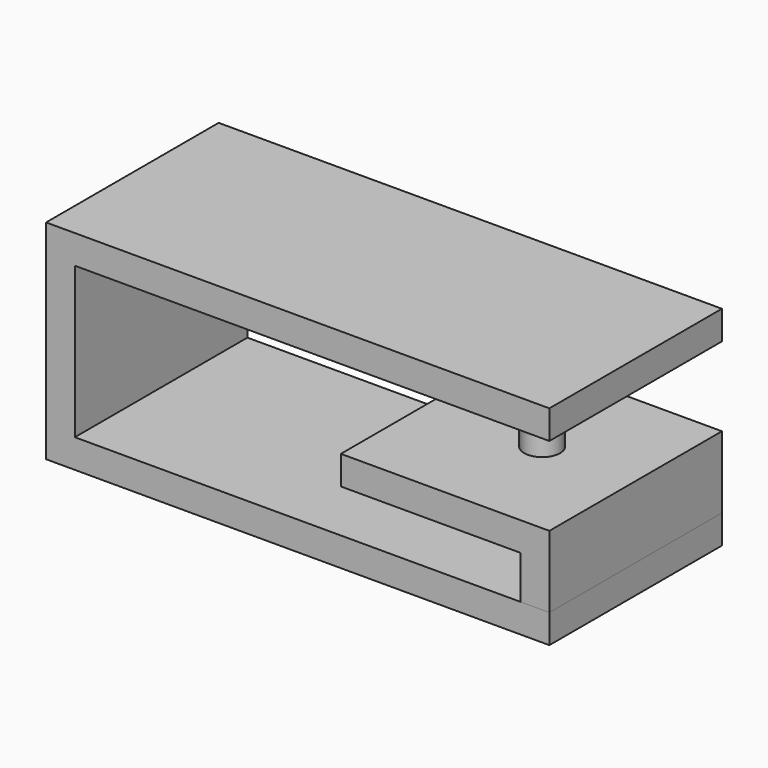
from build123d import *

# Parameters (mm, degrees)
F0_W      = 70
F0_H      = 30
F1_DEPTH  = 4
F2_W      = 4
F2_H      = 30
F3_DEPTH  = 25
F4_W      = 30
F4_H      = 4
F5_DEPTH  = 66
F6_W      = 4
F6_H      = 30
F7_DEPTH  = 10
F8_W      = 30
F8_H      = 4
F9_DEPTH  = 25
F10_R     = 2.5
F11_DEPTH = 11


with BuildPart() as f1:
    # F0 (on Top) → F1 (new body)
    with BuildSketch(Plane.XY):
        with Locations((-35, 15)):
            Rectangle(F0_W, F0_H)
    extrude(amount=F1_DEPTH)

    # F2 (on face) → F3 (join)
    with BuildSketch(Plane(origin=(0, 0, 0), x_dir=(1, 0, 0), z_dir=(0, 0, -1))):
        with Locations((-68, -15)):
            Rectangle(F2_W, F2_H)
    extrude(amount=F3_DEPTH)

    # F4 (on face) → F5 (join)
    with BuildSketch(Plane.YZ.offset(-66)):
        with Locations((15, -23)):
            Rectangle(F4_W, F4_H)
    extrude(amount=F5_DEPTH)


with BuildPart() as f7:
    # F6 (on face) → F7 (new body)
    with BuildSketch(Plane.XY.offset(-21)):
        with Locations((-2, 15)):
            Rectangle(F6_W, F6_H)
    extrude(amount=F7_DEPTH)

    # F8 (on face) → F9 (join)
    with BuildSketch(Plane(origin=(-4, 0, 0), x_dir=(0, -1, 0), z_dir=(-1, 0, 0))):
        with Locations((-15, -13)):
            Rectangle(F8_W, F8_H)
    extrude(amount=F9_DEPTH)


with BuildPart() as f11:
    # F10 (on face) → F11 (new body)
    with BuildSketch(Plane.XY.offset(-11)):
        with Locations((-13.000882, 15)):
            Circle(F10_R)
    extrude(amount=F11_DEPTH)


solid = Compound([f1.part, f7.part, f11.part])
